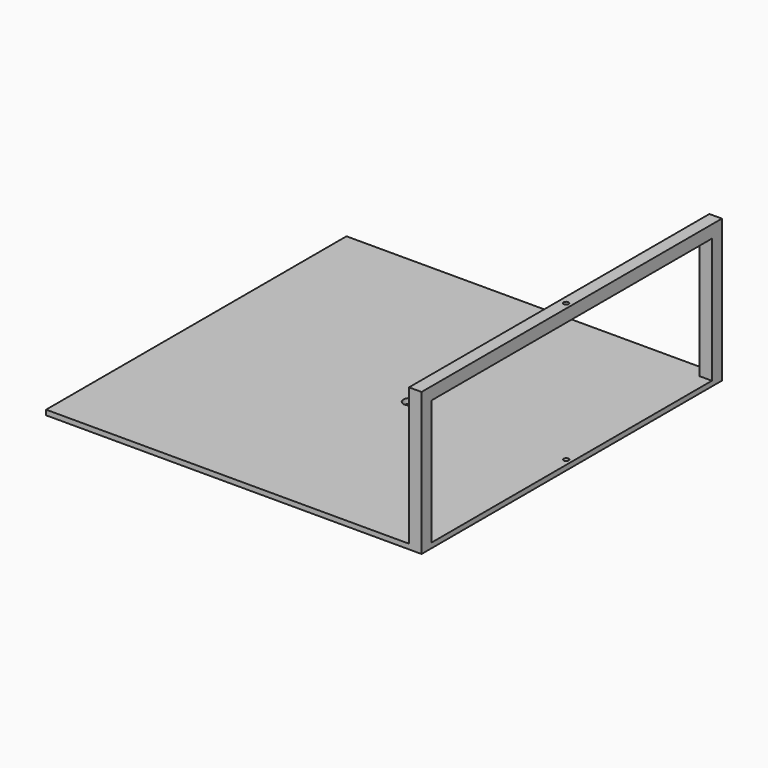
from build123d import *

# Parameters (mm, degrees)
F0_W     = 750
F0_H     = 750
F1_DEPTH = 10
F2_W     = 25
F2_H     = 25
F3_DEPTH = 250
F4_W     = 25
F4_H     = 749.966674
F5_DEPTH = 25
F6_R     = 5
F7_DEPTH = 285.001
F8_R     = 12.5
F9_DEPTH = 25


with BuildPart() as f1:
    # F0 (on Top) → F1 (new body)
    with BuildSketch(Plane.XY):
        with Locations((-465.575071, 330.507226)):
            Rectangle(F0_W, F0_H)
    extrude(amount=F1_DEPTH)

    # F2 (on face) → F3 (join)
    with BuildSketch(Plane.XY.offset(10)):
        with Locations((-103.075071, -31.992774)):
            Rectangle(F2_W, F2_H)
        with Locations((-103.075071, 693.007226)):
            Rectangle(F2_W, F2_H)
    extrude(amount=F3_DEPTH)

    # F4 (on face) → F5 (join)
    with BuildSketch(Plane.XY.offset(260)):
        with Locations((-103.075071, 330.490563)):
            Rectangle(F4_W, F4_H)
    extrude(amount=F5_DEPTH)

    # F6 (on face) → F7 (cut, through all)
    with BuildSketch(Plane.XY.offset(285)):
        with Locations((-101.70645, 330.490563)):
            Circle(F6_R)
    extrude(amount=-F7_DEPTH, mode=Mode.SUBTRACT)

    # F8 (on face) → F9 (cut)
    with BuildSketch(Plane.XY.offset(10)):
        with Locations((-414.20645, 330.507226)):
            Circle(F8_R)
    extrude(amount=-F9_DEPTH, mode=Mode.SUBTRACT)


solid = f1.part
